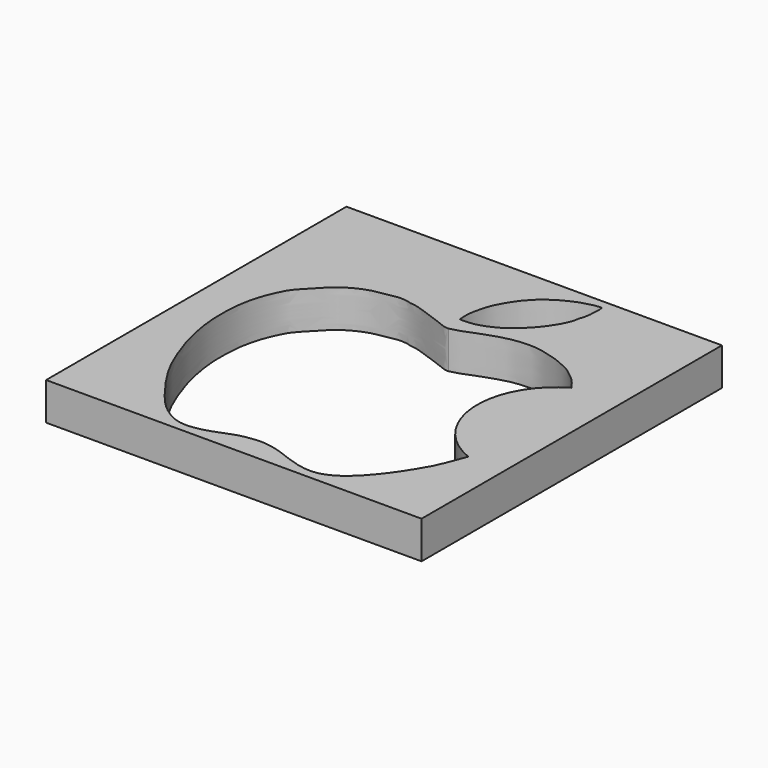
from build123d import *

# Parameters (mm, degrees)
F0_W     = 60
F0_H     = 60
F1_DEPTH = 6


with BuildPart() as f1:
    # F0 (on Top) → F1 (new body)
    with BuildSketch(Plane.XY):
        with Locations((30, 30)):
            Rectangle(F0_W, F0_H)
        with BuildLine():
            add(Edge.make_bspline(
                [(52.4959154427, 39.3120795488), (52.1552112726, 39.7575055055), (51.6147166692, 40.5793705596), (50.6376220059, 41.528980565), (49.8744523226, 42.0624616737), (49.0121343608, 42.815455797), (47.6248775197, 43.4756447365), (45.9060410004, 44.1949041766), (45.127345339, 44.3345823798), (43.8283811336, 44.7830295112), (41.5456919327, 45.1617195974), (39.0511899204, 44.9255262639), (37.713417358, 44.6542514922), (34.9301080822, 43.8242422677), (32.3063117439, 42.6638933997), (30.991568126, 42.3249529333), (30.667309014, 42.2513842154), (30.5405631661, 42.2228682116)],
                knots=[0, 0, 0, 0, 0.0678019867, 0.1297954253, 0.181513415, 0.2379388733, 0.3062428044, 0.3792392969, 0.4268495466, 0.4880508221, 0.5715743279, 0.6560108648, 0.7191663786, 0.8106740225, 0.9043374082, 0.9650582539, 1, 1, 1, 1], degree=3))
            ThreePointArc((52.4959154427, 39.3120795488), (46.2124522955, 27.5258544769), (54.0803221304, 16.7326327692))
            add(Edge.make_bspline(
                [(30.5405631661, 42.2228682116), (30.3773796636, 42.2186520243), (29.9256325398, 42.17206372), (28.3934363344, 42.8763722267), (27.1299271727, 43.2471419555), (26.4882522093, 43.5122850512), (24.7216085721, 44.1481628348), (23.3328792866, 44.5804108398), (22.4756367108, 44.5866758416), (21.973133807, 44.8464547094), (20.353055087, 44.9915781233), (18.8616336972, 44.5607826417), (16.2885511578, 44.3423243981), (12.5425452627, 42.4620821983), (10.2646877088, 39.7751093266), (8.4798579852, 38.0735575023), (7.631006256, 36.1630276662), (6.9087711542, 34.5444333959), (6.3667070987, 32.4927923688), (6.0116346317, 30.6430137455), (5.8054113436, 26.6936678249), (6.2132529131, 23.1713904214), (6.8727023172, 20.1291409487), (7.6451465854, 17.6275218064), (9.124409636, 13.7021672767), (10.9216521673, 10.3637795607), (13.8856223276, 6.2213718674), (16.2039187282, 3.5268280572), (18.5205714671, 1.9952181807), (20.1466841615, 1.4172977157), (22.053906326, 1.3688579218), (24.4702879109, 1.9049682219), (26.5536303911, 2.7776370639), (28.0905660336, 3.3636183235), (29.8158881049, 3.6468337276), (31.4997094091, 3.8526250399), (34.061622013, 3.4535180189), (36.164267622, 2.5834843112), (37.704341899, 2.0578345668), (38.7896948265, 1.7233810228), (40.1400699603, 1.4394213767), (42.0775020277, 1.3788507368), (44.456105505, 2.282009543), (47.0531318231, 4.5047225788), (49.2730087814, 7.329925565), (50.4849637421, 9.1368869663), (52.2038256962, 11.9344884059), (52.9021046718, 13.6141871273), (53.3418043485, 14.8124878476), (54.0803221304, 16.7326327692)],
                knots=[0, 0, 0, 0, 0.0107808843, 0.0294353222, 0.0458843198, 0.0578118198, 0.0773302841, 0.0950822763, 0.1076927213, 0.1182729214, 0.1359922136, 0.153979633, 0.1767034092, 0.2059527761, 0.2329896151, 0.2552801014, 0.2755995792, 0.2948050341, 0.3152407514, 0.3350561644, 0.3633187276, 0.3908542023, 0.4156856577, 0.4389572791, 0.4678926801, 0.4963465559, 0.5285734869, 0.5559091234, 0.5792705552, 0.5977624135, 0.6172391903, 0.6399016794, 0.6614749871, 0.6798175765, 0.6984320392, 0.7171401485, 0.7401137768, 0.7620161645, 0.7800784877, 0.7951496733, 0.8117735076, 0.8314672485, 0.8539919825, 0.8807077789, 0.9076200145, 0.9293124269, 0.9549299224, 0.9730286416, 1, 1, 1, 1], degree=3))
        make_face(mode=Mode.SUBTRACT)
        with BuildLine():
            add(Edge.make_bspline(
                [(30.086543411, 45.0769588351), (30.2849277308, 45.0537669855), (30.7620270922, 44.997992248), (32.1039665117, 45.1308422492), (32.9657044674, 45.3464871544), (33.9541997949, 45.6555441612), (34.7858139045, 46.0829981394), (35.3835670178, 46.382752023), (35.9582189949, 46.7234579884), (37.4160120626, 47.7747794521), (39.0821985981, 49.6047199622), (39.6582210635, 50.3674994031), (40.3720402198, 51.4111159278), (40.898393875, 52.3460913107), (41.4762191244, 53.6608503073), (41.4677847045, 54.3122666076), (41.9072776441, 55.4308364993), (41.9970692349, 56.6650398352), (42.0829168472, 57.7140140876), (42.0163807647, 58.2749270755), (41.9864282012, 58.550812304)],
                knots=[0, 0, 0, 0, 0.0437334371, 0.1053401515, 0.1568332941, 0.2108251828, 0.2628231636, 0.3055574062, 0.3478888855, 0.4200549995, 0.5045403477, 0.5575453799, 0.6157606935, 0.673186322, 0.7357538978, 0.7789780527, 0.8362699503, 0.8967332043, 0.9512912669, 1, 1, 1, 1], degree=3))
            add(Edge.make_bspline(
                [(41.9864282012, 58.550812304), (41.8532639147, 58.5572918726), (41.5015627601, 58.5657174126), (40.7017885074, 58.4630128903), (39.9272997764, 58.2351876951), (39.1182438715, 58.0543347983), (38.2753643698, 57.7025584799), (37.7348908981, 57.4582033032), (37.2559838503, 57.2280437496), (36.7325495671, 56.9687121828), (36.1933164227, 56.6359405437), (35.5099435166, 56.1918068456), (34.9832330892, 55.8063558939), (34.6631578889, 55.5407199928), (34.2857734267, 55.2489733205), (33.8962634136, 54.8384514195), (33.3983832095, 54.3235607402), (33.0155824846, 53.8929594448), (32.7436558966, 53.5650109775), (31.8964857803, 52.3729358736), (31.1778475348, 51.0832149178), (30.6767916452, 49.9971119041), (29.9652658908, 47.3937526812), (29.9547350144, 45.788057594), (30.086543411, 45.0769588351)],
                knots=[0, 0, 0, 0, 0.0339364863, 0.0785911377, 0.1235161386, 0.1690645787, 0.2164913335, 0.2547778619, 0.2906294643, 0.3283090061, 0.3680965777, 0.4133435581, 0.4534547783, 0.4852341768, 0.5189754385, 0.5566126462, 0.5991688204, 0.6360809715, 0.6681754444, 0.7277063707, 0.7885819403, 0.8429349841, 0.9239043839, 1, 1, 1, 1], degree=3))
        make_face(mode=Mode.SUBTRACT)
    extrude(amount=F1_DEPTH)


solid = f1.part
